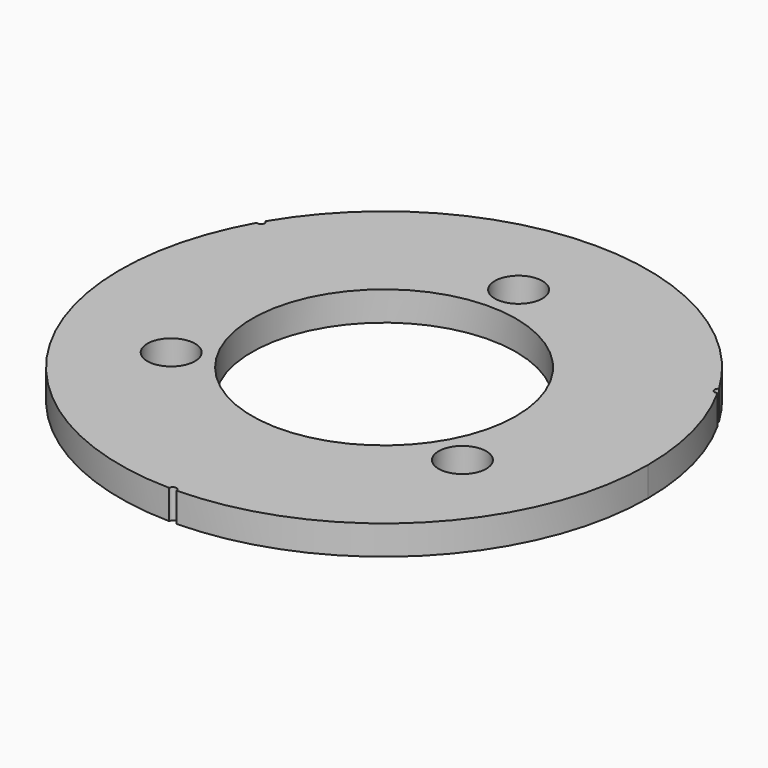
from build123d import *

# Parameters (mm, degrees)
F0_R     = 10.31875
F0_R_2   = 57.15
F1_DEPTH = 12.7


with BuildPart() as f1:
    # F0 (on Top) → F1 (new body)
    with BuildSketch(Plane.XY):
        with BuildLine():
            ThreePointArc((1.587462, -114.288976), (81.381622, -80.25909), (114.3, 0))
            ThreePointArc((114.3, 0), (110.608097, 28.8156), (99.770887, 55.769706))
            ThreePointArc((99.770887, 55.769706), (97.611888, 56.35625), (98.183425, 58.51927))
            ThreePointArc((98.183425, 58.51927), (0, 114.3), (-98.183425, 58.51927))
            ThreePointArc((-98.183425, 58.51927), (-97.609141, 57.938972), (-97.399204, 57.15))
            ThreePointArc((-97.399204, 57.15), (-98.188185, 55.777949), (-99.770887, 55.769706))
            ThreePointArc((-99.770887, 55.769706), (-98.986704, -57.15), (-1.587462, -114.288976))
            ThreePointArc((-1.587462, -114.288976), (0, -112.7125), (1.587462, -114.288976))
        make_face()
        with Locations((-63.05647, -36.40567)):
            Circle(F0_R, mode=Mode.SUBTRACT)
        with Locations((63.05647, -36.40567)):
            Circle(F0_R, mode=Mode.SUBTRACT)
        Circle(F0_R_2, mode=Mode.SUBTRACT)
        with Locations((0, 72.8091)):
            Circle(F0_R, mode=Mode.SUBTRACT)
        with BuildLine():
            ThreePointArc((1.587462, -114.288976), (81.381622, -80.25909), (114.3, 0))
            ThreePointArc((114.3, 0), (110.608097, 28.8156), (99.770887, 55.769706))
            ThreePointArc((99.770887, 55.769706), (97.611888, 56.35625), (98.183425, 58.51927))
            ThreePointArc((98.183425, 58.51927), (0, 114.3), (-98.183425, 58.51927))
            ThreePointArc((-98.183425, 58.51927), (-97.609141, 57.938972), (-97.399204, 57.15))
            ThreePointArc((-97.399204, 57.15), (-98.188185, 55.777949), (-99.770887, 55.769706))
            ThreePointArc((-99.770887, 55.769706), (-98.986704, -57.15), (-1.587462, -114.288976))
            ThreePointArc((-1.587462, -114.288976), (0, -112.7125), (1.587462, -114.288976))
        make_face()
        with Locations((-63.05647, -36.40567)):
            Circle(F0_R, mode=Mode.SUBTRACT)
        with Locations((63.05647, -36.40567)):
            Circle(F0_R, mode=Mode.SUBTRACT)
        Circle(F0_R_2, mode=Mode.SUBTRACT)
        with Locations((0, 72.8091)):
            Circle(F0_R, mode=Mode.SUBTRACT)
        with BuildLine():
            ThreePointArc((1.587462, -114.288976), (81.381622, -80.25909), (114.3, 0))
            ThreePointArc((114.3, 0), (110.608097, 28.8156), (99.770887, 55.769706))
            ThreePointArc((99.770887, 55.769706), (97.611888, 56.35625), (98.183425, 58.51927))
            ThreePointArc((98.183425, 58.51927), (0, 114.3), (-98.183425, 58.51927))
            ThreePointArc((-98.183425, 58.51927), (-97.609141, 57.938972), (-97.399204, 57.15))
            ThreePointArc((-97.399204, 57.15), (-98.188185, 55.777949), (-99.770887, 55.769706))
            ThreePointArc((-99.770887, 55.769706), (-98.986704, -57.15), (-1.587462, -114.288976))
            ThreePointArc((-1.587462, -114.288976), (0, -112.7125), (1.587462, -114.288976))
        make_face()
        with Locations((-63.05647, -36.40567)):
            Circle(F0_R, mode=Mode.SUBTRACT)
        with Locations((63.05647, -36.40567)):
            Circle(F0_R, mode=Mode.SUBTRACT)
        Circle(F0_R_2, mode=Mode.SUBTRACT)
        with Locations((0, 72.8091)):
            Circle(F0_R, mode=Mode.SUBTRACT)
    extrude(amount=F1_DEPTH)


solid = f1.part
